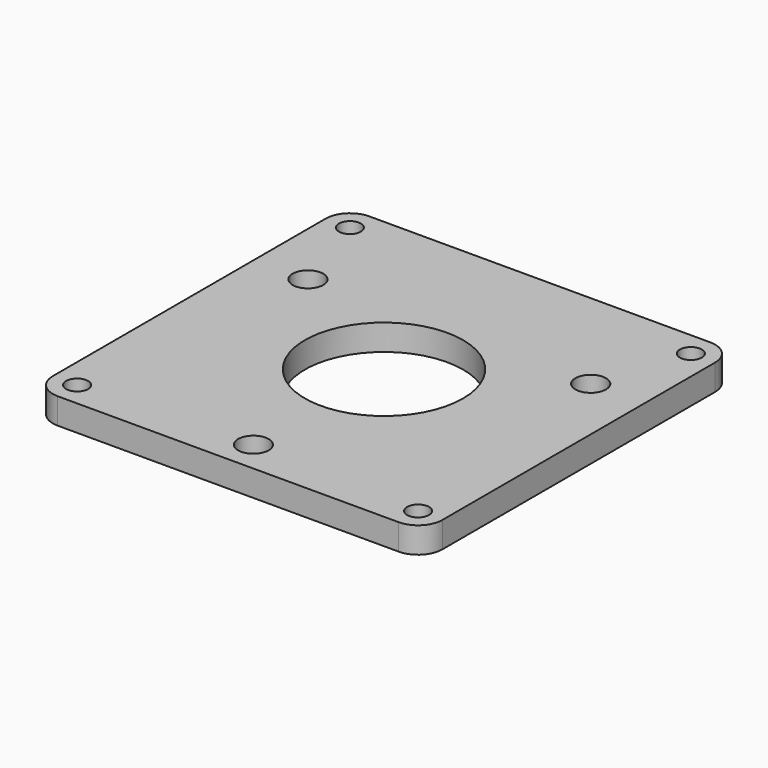
from build123d import *

# Parameters (mm, degrees)
F0_W     = 76.350024
F0_H     = 76.350024
F0_R     = 2.15265
F0_R_2   = 3
F0_R_3   = 15.497899
F1_DEPTH = 5.08
F2_R     = 4.7625


with BuildPart() as f1:
    # F0 (on Top) → F1 (new body)
    with BuildSketch(Plane.XY):
        Rectangle(F0_W, F0_H)
        with Locations((-33.412512, -33.412512)):
            Circle(F0_R, mode=Mode.SUBTRACT)
        with Locations((0, -32.000012)):
            Circle(F0_R_2, mode=Mode.SUBTRACT)
        with Locations((33.412512, -33.412512)):
            Circle(F0_R, mode=Mode.SUBTRACT)
        with Locations((-27.712823, 16.000006)):
            Circle(F0_R_2, mode=Mode.SUBTRACT)
        with Locations((-33.412512, 33.412512)):
            Circle(F0_R, mode=Mode.SUBTRACT)
        Circle(F0_R_3, mode=Mode.SUBTRACT)
        with Locations((27.712823, 16.000006)):
            Circle(F0_R_2, mode=Mode.SUBTRACT)
        with Locations((33.412512, 33.412512)):
            Circle(F0_R, mode=Mode.SUBTRACT)
    extrude(amount=F1_DEPTH)

    # F2
    f2_edges = [f1.edges().sort_by_distance(p)[0] for p in [
        (-38.175012, 38.175012, 2.54),
        (38.175012, 38.175012, 2.54),
        (38.175012, -38.175012, 2.54),
        (-38.175012, -38.175012, 2.54),
    ]]
    fillet(f2_edges, radius=F2_R)


solid = f1.part
